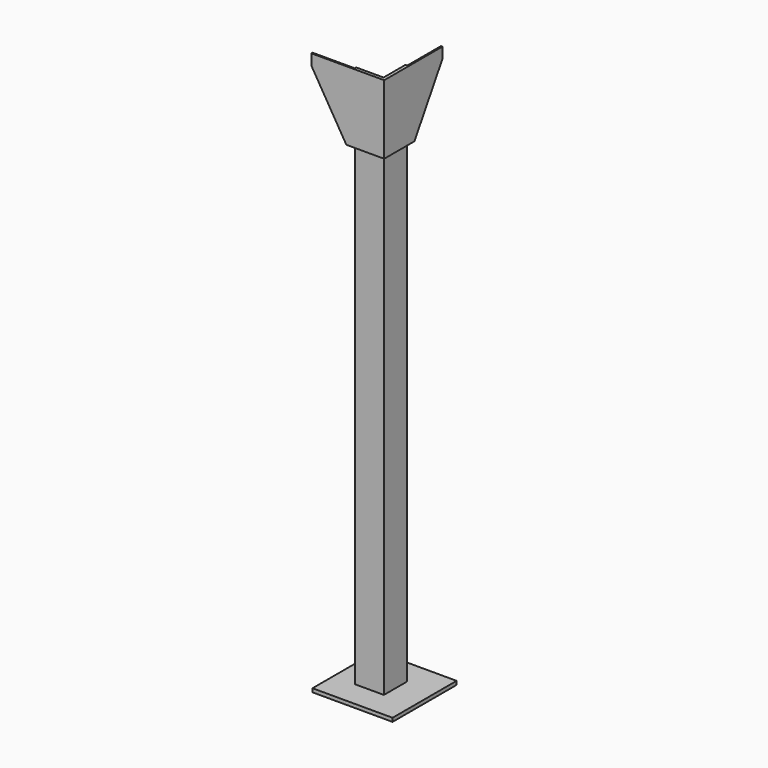
from build123d import *

# Parameters (mm, degrees)
F1_DEPTH = 38.1
F6_DEPTH = 1905
F7_W     = 279.4
F7_H     = 279.4
F8_DEPTH = 12.7


with BuildPart() as f1:
    # F0 (on Top) → F1 (new body)
    with BuildSketch(Plane.XY):
        Polygon((-254, 0), (0, 0), (0, 254), (-5.08, 254), (-5.08, 5.08), (-254, 5.08), align=None)
    extrude(amount=F1_DEPTH)

    # F1_face (on face) → F4 section 0
    with BuildSketch(Plane(origin=(-65.398586, 65.398586, 0), x_dir=(1, 0, 0), z_dir=(0, 0, -1))):
        Polygon((65.398586, 65.398586), (-188.601414, 65.398586), (-188.601414, 60.318586), (60.318586, 60.318586), (60.318586, -188.601414), (65.398586, -188.601414), align=None)
    # F3 (on offset) → F4 section 1
    with BuildSketch(Plane.XY.offset(-203.2)):
        Polygon((-132.08, 0), (0, 0), (0, 132.08), (-5.08, 132.08), (-5.08, 5.08), (-132.08, 5.08), align=None)
    loft()

    # F5 (on face) → F6 (join)
    with BuildSketch(Plane.XY.offset(38.1)):
        Polygon((-106.68, 5.08), (-5.08, 5.08), (-5.08, 106.68), (-11.43, 106.68), (-11.43, 11.43), (-106.68, 11.43), align=None)
    extrude(amount=-F6_DEPTH)

    # F7 (on face) → F8 (join)
    with BuildSketch(Plane(origin=(0, 0, -1866.9), x_dir=(1, 0, 0), z_dir=(0, 0, -1))):
        with Locations((-42.072112, -54.21998)):
            Rectangle(F7_W, F7_H)
    extrude(amount=-F8_DEPTH)


solid = f1.part
